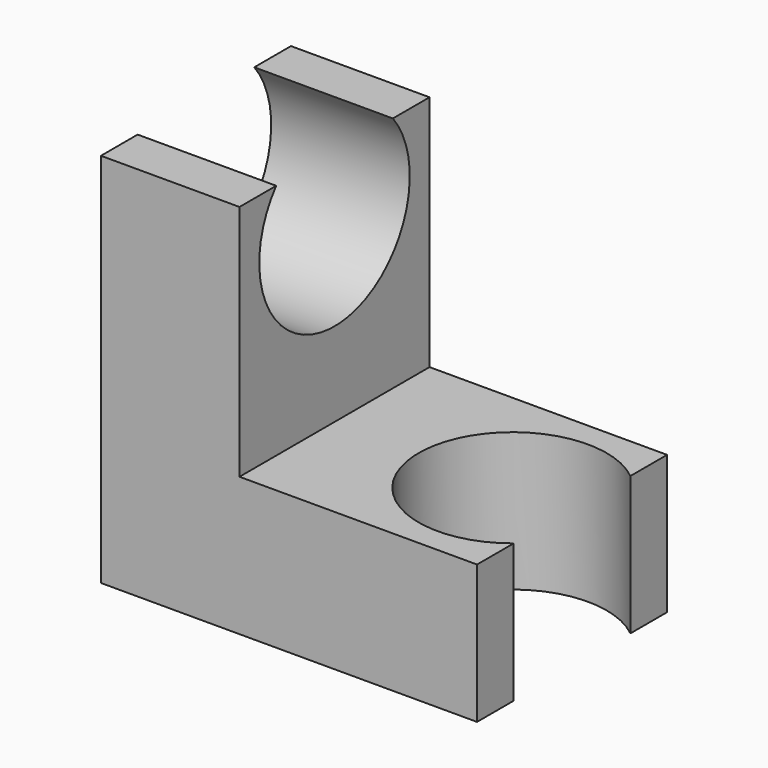
from build123d import *

# Parameters (mm, degrees)
F1_DEPTH = 6
F3_DEPTH = 7.001
F4_R     = 4.75
F5_DEPTH = 25


with BuildPart() as f1:
    # F0 (on Front) → F1 (new body, symmetric)
    with BuildSketch(Plane.XZ):
        Polygon((7, 19), (0, 19), (0, 0), (19, 0), (19, 7), (7, 7), align=None)
    extrude(amount=F1_DEPTH, both=True)

    # F2 (on face) → F3 (cut, through all)
    with BuildSketch(Plane.XY.offset(7)):
        with BuildLine():
            ThreePointArc((19, -3.68273), (20.290251, -2.038688), (20.75, 0))
            ThreePointArc((20.75, 0), (20.290251, 2.038688), (19, 3.68273))
            Line((19, 3.68273), (19, -3.68273))
        make_face()
        with BuildLine():
            Line((19, -3.68273), (19, 3.68273))
            ThreePointArc((19, 3.68273), (11.25, 0), (19, -3.68273))
        make_face()
    extrude(amount=-F3_DEPTH, mode=Mode.SUBTRACT)

    # F4 (on face) → F5 (cut)
    with BuildSketch(Plane.YZ.offset(7)):
        with Locations((0, 16)):
            Circle(F4_R)
    extrude(amount=-F5_DEPTH, mode=Mode.SUBTRACT)


solid = f1.part
